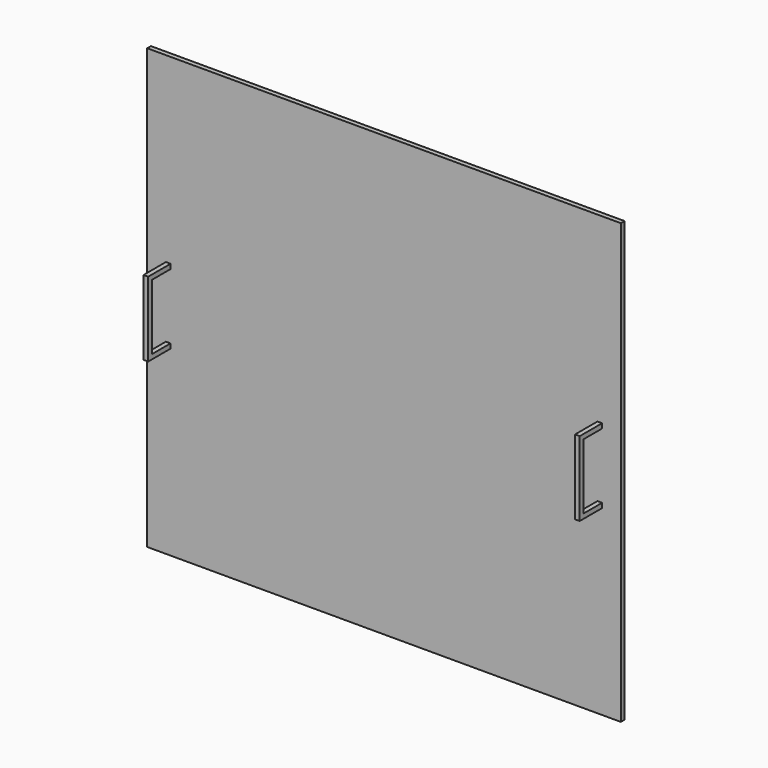
from build123d import *

# Parameters (mm, degrees)
F0_W     = 643.89
F0_H     = 596.9
F1_DEPTH = 6.35
F2_W     = 6.35
F2_H     = 101.6
F3_DEPTH = 38.1
F4_W     = 31.75
F4_H     = 88.9
F5_DEPTH = 609.6


with BuildPart() as f1:
    # F0 (on Front) → F1 (new body)
    with BuildSketch(Plane.XZ):
        Rectangle(F0_W, F0_H)
    extrude(amount=F1_DEPTH)

    # F2 (on face) → F3 (join)
    with BuildSketch(Plane.XZ.offset(6.35)):
        with Locations((-293.37, 0)):
            Rectangle(F2_W, F2_H)
        with Locations((293.37, 0)):
            Rectangle(F2_W, F2_H)
    extrude(amount=F3_DEPTH)

    # F4 (on face) → F5 (cut)
    with BuildSketch(Plane(origin=(-296.545, 0, 0), x_dir=(0, -1, 0), z_dir=(-1, 0, 0))):
        with Locations((22.225, 0)):
            Rectangle(F4_W, F4_H)
    extrude(amount=-F5_DEPTH, mode=Mode.SUBTRACT)


solid = f1.part
